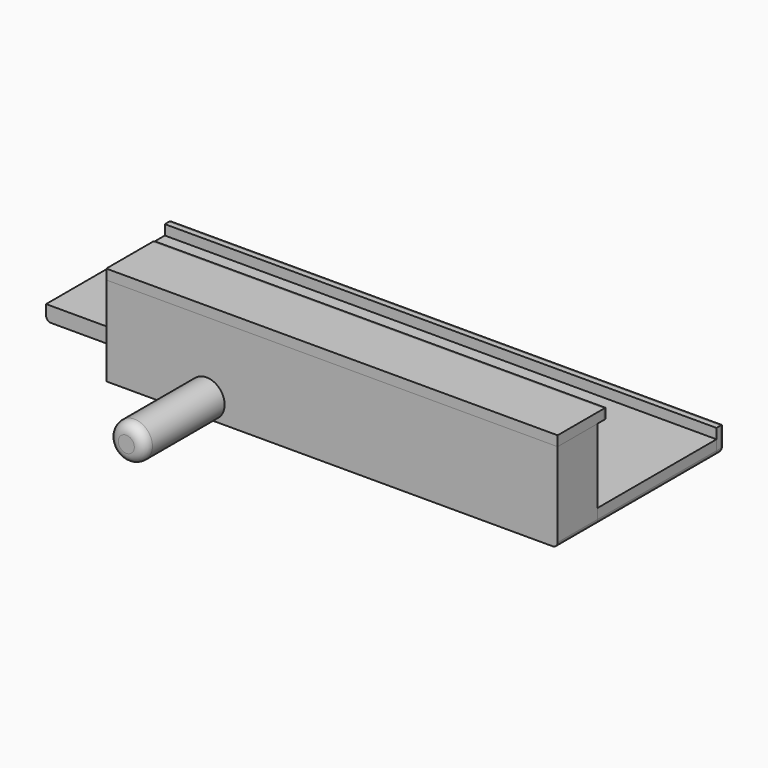
from build123d import *

# Parameters (mm, degrees)
CYLINDER_R     = 1.8
CYLINDER_DEPTH = 10
FILLET_R       = 1
BOX002_W       = 55
BOX002_H       = 1
BOX002_DEPTH   = 2.5
FILLET001_R    = 0.5
BOX001_W       = 55
BOX001_H       = 14.8
BOX001_DEPTH   = 1.5
FILLET003_R    = 0.5
BOX_W          = 45
BOX_H          = 5
BOX_DEPTH      = 8.9
FILLET004_R    = 0.5
BOX003_W       = 45
BOX003_H       = 6.3
BOX003_DEPTH   = 1
FILLET005_R    = 0.5


with BuildPart() as fillet_body:
    # Cylinder → Cylinder (new body)
    with BuildSketch(Plane(origin=(20, 0, 1.8), x_dir=(1, 0, 0), z_dir=(0, -1, 0))):
        Circle(CYLINDER_R)
    extrude(amount=CYLINDER_DEPTH)

    # Fillet
    fillet_edges = [fillet_body.edges().sort_by_distance(p)[0] for p in [
        (18.2, -10, 1.8),
    ]]
    fillet(fillet_edges, radius=FILLET_R)


with BuildPart() as fillet001:
    # Box002 → Box002 (new body)
    with BuildSketch(Plane(origin=(0, 19.8, 0), x_dir=(1, 0, 0), z_dir=(0, 0, 1))):
        with Locations((27.5, 0.5)):
            Rectangle(BOX002_W, BOX002_H)
    extrude(amount=BOX002_DEPTH)

    # Fillet001
    fillet001_edges = [fillet001.edges().sort_by_distance(p)[0] for p in [
        (0, 20.8, 1.25),
        (0, 20.3, 0),
        (55, 20.8, 1.25),
        (55, 20.3, 0),
        (27.5, 20.8, 0),
        (27.5, 20.8, 2.5),
    ]]
    fillet(fillet001_edges, radius=FILLET001_R)


with BuildPart() as fillet003:
    # Box001 → Box001 (new body)
    with BuildSketch(Plane(origin=(0, 5, 0), x_dir=(1, 0, 0), z_dir=(0, 0, 1))):
        with Locations((27.5, 7.4)):
            Rectangle(BOX001_W, BOX001_H)
    extrude(amount=BOX001_DEPTH)

    # Fillet003
    fillet003_edges = [fillet003.edges().sort_by_distance(p)[0] for p in [
        (0, 12.4, 0),
        (55, 12.4, 0),
    ]]
    fillet(fillet003_edges, radius=FILLET003_R)


with BuildPart() as fillet004:
    # Box → Box (new body)
    with BuildSketch(Plane(origin=(10, 0, 0), x_dir=(1, 0, 0), z_dir=(0, 0, 1))):
        with Locations((22.5, 2.5)):
            Rectangle(BOX_W, BOX_H)
    extrude(amount=BOX_DEPTH)

    # Fillet004
    fillet004_edges = [fillet004.edges().sort_by_distance(p)[0] for p in [
        (55, 2.5, 0),
    ]]
    fillet(fillet004_edges, radius=FILLET004_R)


with BuildPart() as fillet005:
    # Box003 → Box003 (new body)
    with BuildSketch(Plane(origin=(10, 0, 8.9), x_dir=(1, 0, 0), z_dir=(0, 0, 1))):
        with Locations((22.5, 3.15)):
            Rectangle(BOX003_W, BOX003_H)
    extrude(amount=BOX003_DEPTH)

    # Fillet005
    fillet005_edges = [fillet005.edges().sort_by_distance(p)[0] for p in [
        (10, 6.3, 9.4),
        (55, 6.3, 9.4),
        (32.5, 6.3, 9.9),
    ]]
    fillet(fillet005_edges, radius=FILLET005_R)


solid = Compound([fillet_body.part, fillet001.part, fillet003.part, fillet004.part, fillet005.part])
